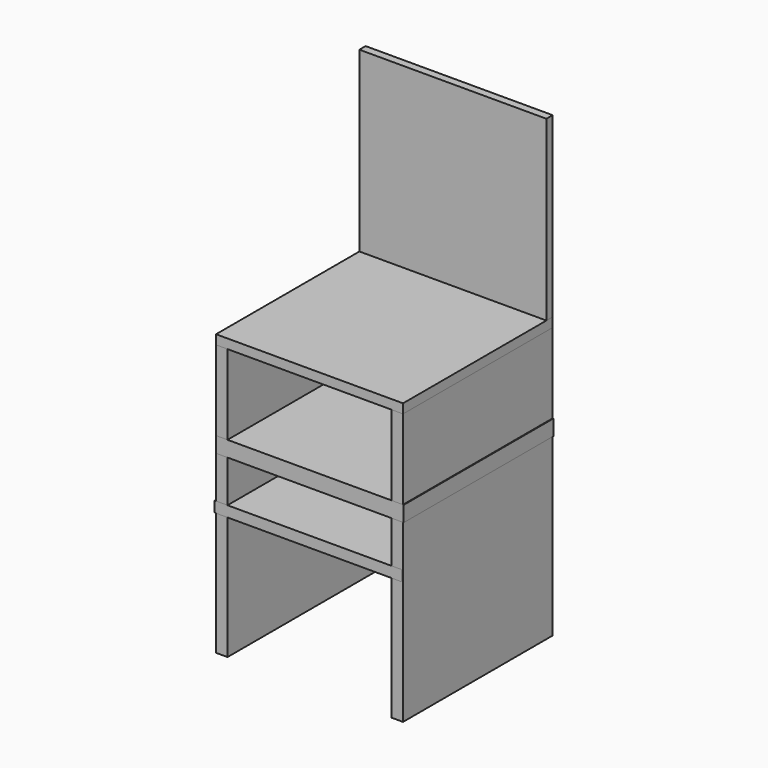
from build123d import *

# Parameters (mm, degrees)
F0_W     = 304.8
F0_H     = 304.8
F1_DEPTH = 15.24
F2_W     = 18.729774
F2_H     = 441.96
F3_DEPTH = 304.8
F4_W     = 304.8
F4_H     = 289.56
F5_DEPTH = 12.7
F6_W     = 304.8
F6_H     = 17.500475
F7_DEPTH = 304.8
F8_W     = 304.8
F8_H     = 25.4
F9_DEPTH = 304.8


with BuildPart() as f1:
    # F0 (on Top) → F1 (new body)
    with BuildSketch(Plane.XY):
        Rectangle(F0_W, F0_H)
    extrude(amount=F1_DEPTH)


with BuildPart() as f3:
    # F2 (on face) → F3 (new body)
    with BuildSketch(Plane.XZ.offset(152.4)):
        with Locations((-143.035113, -220.98)):
            Rectangle(F2_W, F2_H)
        with Locations((143.035113, -220.98)):
            Rectangle(F2_W, F2_H)
    extrude(amount=-F3_DEPTH)


with BuildPart() as f5:
    # F4 (on face) → F5 (new body)
    with BuildSketch(Plane(origin=(0, 152.4, 0), x_dir=(-1, 0, 0), z_dir=(0, 1, 0))):
        with Locations((0, 160.02)):
            Rectangle(F4_W, F4_H)
    extrude(amount=-F5_DEPTH)


with BuildPart() as f7:
    # F6 (on face) → F7 (new body)
    with BuildSketch(Plane.XZ.offset(152.4)):
        with Locations((-2.190225, -232.846349)):
            Rectangle(F6_W, F6_H)
    extrude(amount=-F7_DEPTH)


with BuildPart() as f9:
    # F8 (on face) → F9 (new body)
    with BuildSketch(Plane.XZ.offset(152.4)):
        with Locations((1.095101, -142.894148)):
            Rectangle(F8_W, F8_H)
    extrude(amount=-F9_DEPTH)


solid = Compound([f1.part, f3.part, f5.part, f7.part, f9.part])
